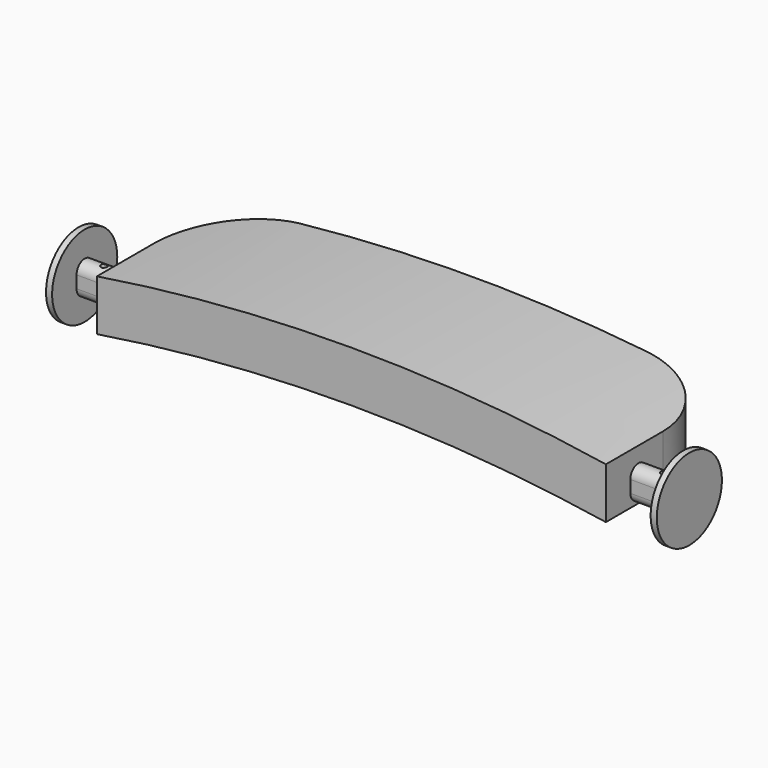
from build123d import *

# Parameters (mm, degrees)
F1_DEPTH  = 19.05
F2_R      = 10.16
F5_DEPTH  = 6.35
F6_DEPTH  = 69.85
F8_DEPTH  = 25.4
F10_R     = 5.08
F11_DEPTH = 0.762
F13_R     = 5.08
F14_DEPTH = 0.762
F15_R     = 0.381
F16_DEPTH = 25.4


with BuildPart() as f1:
    # F0 (on Front) → F1 (new body)
    with BuildSketch(Plane.XZ):
        with BuildLine():
            Line((31.75, 0), (31.75, 6.35))
            ThreePointArc((31.75, 6.35), (0, 8.845796), (-31.75, 6.35))
            Line((-31.75, 6.35), (-31.75, 0))
            ThreePointArc((-31.75, 0), (0, 2.495796), (31.75, 0))
        make_face()
    extrude(amount=-F1_DEPTH)

    # F2
    f2_edges = [f1.edges().sort_by_distance(p)[0] for p in [
        (-31.75, 19.05, 3.175),
        (31.75, 19.05, 3.175),
    ]]
    fillet(f2_edges, radius=F2_R)

    # F4 (on offset) → F5 (join)
    with BuildSketch(Plane.YZ.offset(31.75)):
        with BuildLine():
            Line((6.35, 1.621048), (6.35, 3.145058))
            ThreePointArc((6.35, 3.145058), (5.08, 4.415058), (3.81, 3.145058))
            Line((3.81, 3.145058), (3.81, 1.621048))
            ThreePointArc((3.81, 1.621048), (4.181974, 0.723023), (5.08, 0.351048))
            ThreePointArc((5.08, 0.351048), (5.978026, 0.723023), (6.35, 1.621048))
        make_face()
    extrude(amount=F5_DEPTH)

    # F4 (on offset) → F6 (join)
    with BuildSketch(Plane.YZ.offset(31.75)):
        with BuildLine():
            Line((6.35, 1.621048), (6.35, 3.145058))
            ThreePointArc((6.35, 3.145058), (5.08, 4.415058), (3.81, 3.145058))
            Line((3.81, 3.145058), (3.81, 1.621048))
            ThreePointArc((3.81, 1.621048), (4.181974, 0.723023), (5.08, 0.351048))
            ThreePointArc((5.08, 0.351048), (5.978026, 0.723023), (6.35, 1.621048))
        make_face()
    extrude(amount=-F6_DEPTH)

    # F7 (on Front) → F8 (cut)
    with BuildSketch(Plane.XZ):
        with BuildLine():
            Line((-31.75, 0), (31.75, 0))
            ThreePointArc((31.75, 0), (0, 2.495796), (-31.75, 0))
        make_face()
    extrude(amount=-F8_DEPTH, mode=Mode.SUBTRACT)

    # F10 (on offset) → F11 (join)
    with BuildSketch(Plane.YZ.offset(-38.1)):
        with Locations((5.08, 2.54)):
            Circle(F10_R)
    extrude(amount=F11_DEPTH)

    # F13 (on offset) → F14 (join)
    with BuildSketch(Plane.YZ.offset(38.1)):
        with Locations((5.08, 2.54)):
            Circle(F13_R)
    extrude(amount=-F14_DEPTH)

    # F15 (on Top) → F16 (cut)
    with BuildSketch(Plane.XY):
        with Locations((34.925, 5.08)):
            Circle(F15_R)
        with Locations((-34.925, 5.08)):
            Circle(F15_R)
    extrude(amount=F16_DEPTH, mode=Mode.SUBTRACT)


solid = f1.part
